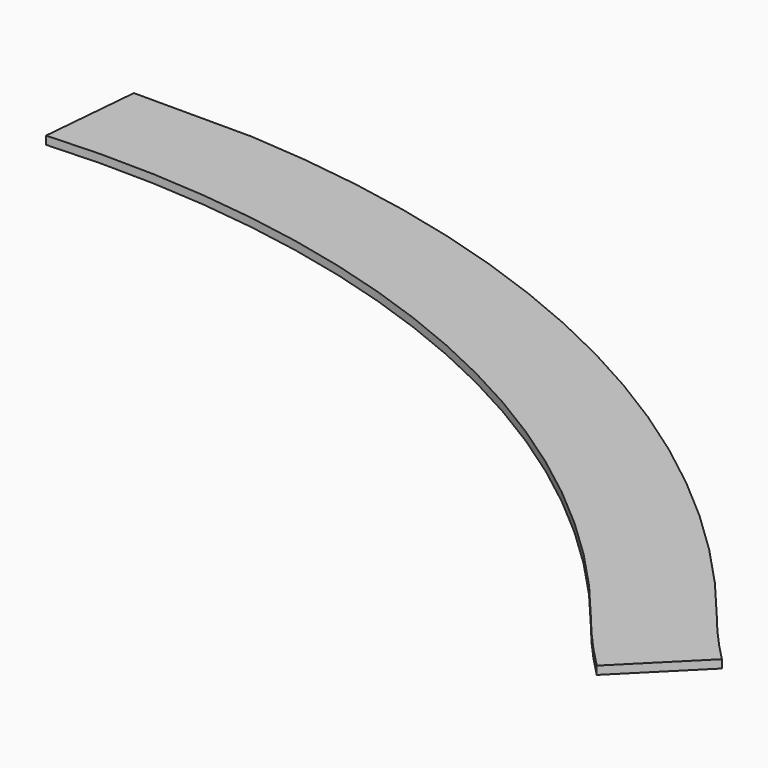
from build123d import *

# Parameters (mm, degrees)
F1_DEPTH = 25.4


with BuildPart() as f1:
    # F0 (on Top) → F1 (new body)
    with BuildSketch(Plane.XY):
        with BuildLine():
            Line((-1948.569128, 99.73551), (-2314.229534, 99.73551))
            Line((-2314.229534, 99.73551), (-2341.121483, -206.782896))
            ThreePointArc((-2341.121483, -206.782896), (-897.997266, -460.019732), (263.883218, -1352.63955))
            ThreePointArc((263.883218, -1352.63955), (346.753887, -1450.505393), (434.896385, -1543.65136))
            Line((434.896385, -1543.65136), (650.422532, -1328.125213))
            ThreePointArc((650.422532, -1328.125213), (573.839706, -1247.195111), (501.837321, -1162.164132))
            ThreePointArc((501.837321, -1162.164132), (-588.813834, -269.935802), (-1948.569128, 99.73551))
        make_face()
    extrude(amount=F1_DEPTH)


solid = f1.part
